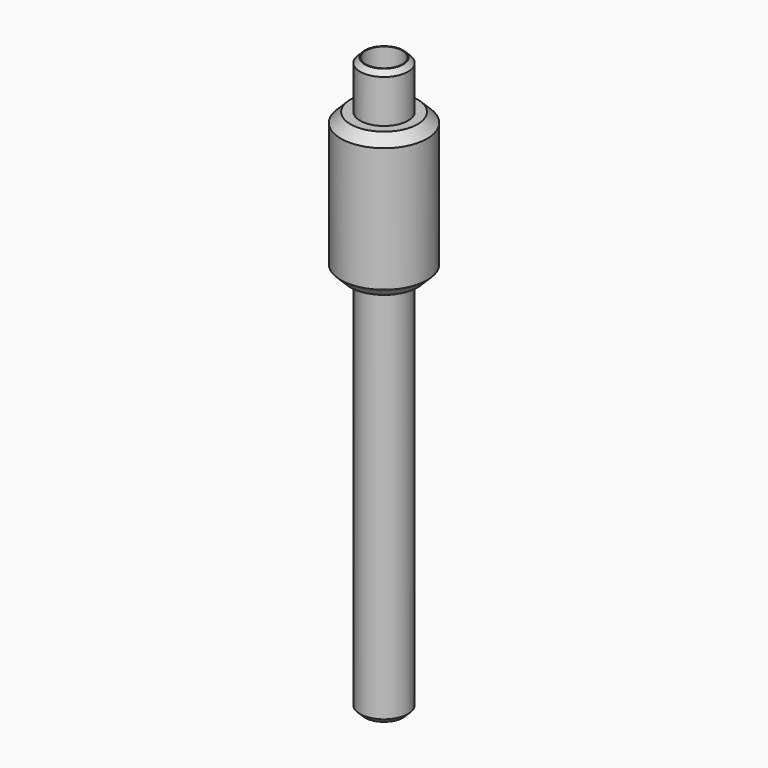
from build123d import *

# Parameters (mm, degrees)
F2_SIZE  = 2.54
F3_R     = 4.880462
F6_DEPTH = 152.401
F4_SIZE  = 1.27
F7_SIZE  = 2.54
F5_SIZE  = 1.27


with BuildPart() as f1:
    # F0 (on Front) → F1 (revolve)
    with BuildSketch(Plane.XZ):
        Polygon((0, -76.2), (6.35, -76.2), (6.35, 25.4), (11.43, 25.4), (11.43, 63.5), (6.35, 63.5), (6.35, 76.2), (0, 76.2), align=None)
    revolve(axis=Axis((0, 0, -2.097856), (0, 0, -1)))

    # F2
    f2_edges = [f1.edges().sort_by_distance(p)[0] for p in [
        (-11.43, 0, 25.4),
    ]]
    chamfer(f2_edges, length=F2_SIZE)

    # F3 (on face) → F6 (cut, through all)
    with BuildSketch(Plane(origin=(0, 0, -76.2), x_dir=(1, 0, 0), z_dir=(0, 0, -1))):
        Circle(F3_R)
    extrude(amount=-F6_DEPTH, mode=Mode.SUBTRACT)

    # F4
    f4_edges = [f1.edges().sort_by_distance(p)[0] for p in [
        (-6.35, 0, 76.2),
    ]]
    chamfer(f4_edges, length=F4_SIZE)

    # F7
    f7_edges = [f1.edges().sort_by_distance(p)[0] for p in [
        (-11.43, 0, 63.5),
    ]]
    chamfer(f7_edges, length=F7_SIZE)

    # F5
    f5_edges = [f1.edges().sort_by_distance(p)[0] for p in [
        (-6.35, 0, -76.2),
    ]]
    chamfer(f5_edges, length=F5_SIZE)


solid = f1.part
